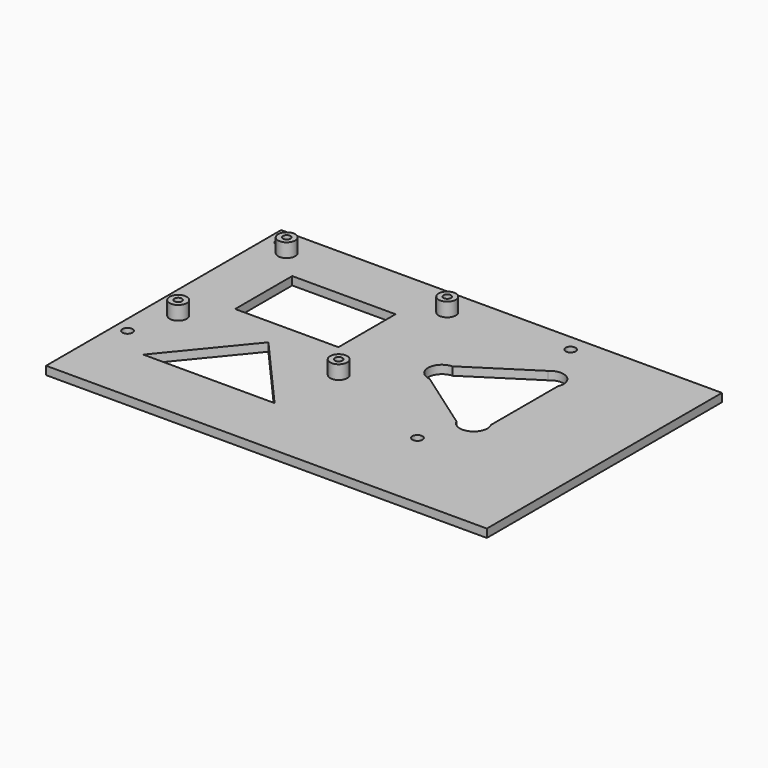
from build123d import *

# Parameters (mm, degrees)
SKETCH001_W   = 159.247498
SKETCH001_H   = 106.166245
SKETCH001_R   = 1.8
SKETCH001_W_2 = 37.327541
SKETCH001_H_2 = 25.790894
PAD_DEPTH     = 3
SKETCH_R      = 3.1
SKETCH_R_2    = 1.35
PAD004_DEPTH  = 5


with BuildPart() as part:
    # Sketch001 → Pad (new body)
    with BuildSketch(Plane.XY):
        with Locations((69.623749, -43.083122)):
            Rectangle(SKETCH001_W, SKETCH001_H)
        with Locations((-5.373725, 3.997676)):
            Circle(SKETCH001_R, mode=Mode.SUBTRACT)
        with Locations((99.381157, 3.997676)):
            Circle(SKETCH001_R, mode=Mode.SUBTRACT)
        with Locations((-5.373725, -65.174667)):
            Circle(SKETCH001_R, mode=Mode.SUBTRACT)
        with Locations((99.381157, -65.174667)):
            Circle(SKETCH001_R, mode=Mode.SUBTRACT)
        with Locations((28.66377, -22.895447)):
            Rectangle(SKETCH001_W_2, SKETCH001_H_2, mode=Mode.SUBTRACT)
        with BuildLine():
            Line((102.543606, -10.170694), (79.745988, -24.831094))
            ThreePointArc((79.745988, -24.831094), (74.954831, -29.68213), (79.457328, -34.802214))
            Line((79.457328, -34.802214), (101.639507, -50.378146))
            ThreePointArc((101.639507, -50.378146), (108.410837, -52.766648), (110.587478, -45.924273))
            Line((110.587478, -45.924273), (110.587478, -15.797321))
            ThreePointArc((110.587478, -15.797321), (108.884887, -9.668253), (102.543606, -10.170694))
        make_face(mode=Mode.SUBTRACT)
        Polygon((30.043512, -45.812858), (7.166186, -73.730591), (54.611111, -73.730591), align=None, mode=Mode.SUBTRACT)
    extrude(amount=PAD_DEPTH)

    # Sketch (on Face23 of Pad) → Pad004 (join)
    with BuildSketch(Plane.XY.offset(3)):
        Circle(SKETCH_R)
        Circle(SKETCH_R_2, mode=Mode.SUBTRACT)
        with Locations((58, 0)):
            Circle(SKETCH_R)
        with Locations((58, 0)):
            Circle(SKETCH_R_2, mode=Mode.SUBTRACT)
        with Locations((0, -49)):
            Circle(SKETCH_R)
        with Locations((0, -49)):
            Circle(SKETCH_R_2, mode=Mode.SUBTRACT)
        with Locations((58, -49)):
            Circle(SKETCH_R)
        with Locations((58, -49)):
            Circle(SKETCH_R_2, mode=Mode.SUBTRACT)
    extrude(amount=PAD004_DEPTH)


solid = part.part
